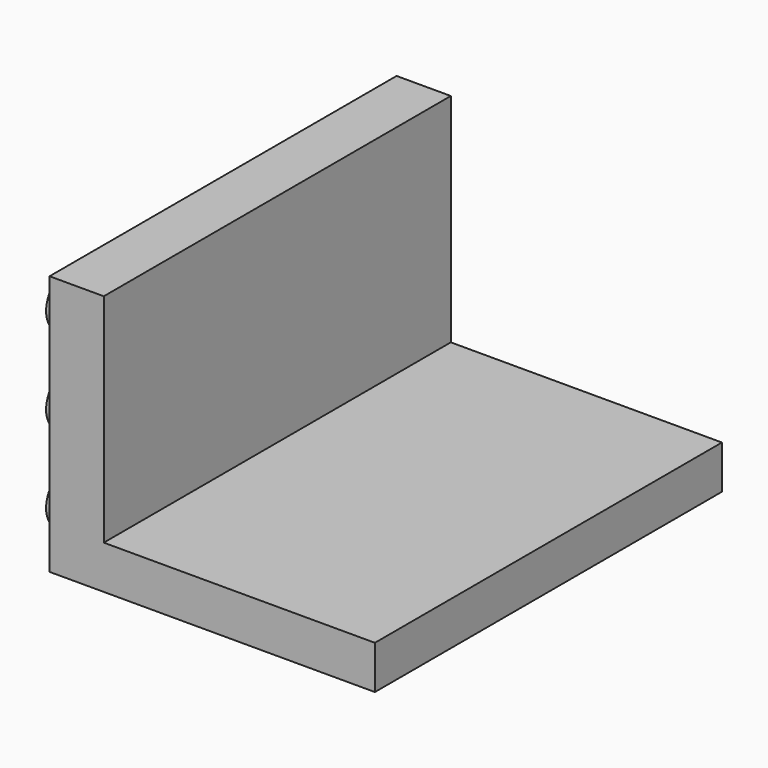
from build123d import *

# Parameters (mm, degrees)
F0_W     = 30
F0_H     = 40
F1_DEPTH = 24
F2_W     = 25
F2_H     = 40
F3_DEPTH = 20
F4_R     = 2.4
F5_DEPTH = 1.6


with BuildPart() as f1:
    # F0 (on Top) → F1 (new body)
    with BuildSketch(Plane.XY):
        Rectangle(F0_W, F0_H)
    extrude(amount=F1_DEPTH)

    # F2 (on face) → F3 (cut)
    with BuildSketch(Plane.XY.offset(24)):
        with Locations((2.5, 0)):
            Rectangle(F2_W, F2_H)
    extrude(amount=-F3_DEPTH, mode=Mode.SUBTRACT)

    # F4 (on face) → F5 (join)
    with BuildSketch(Plane(origin=(-15, 0, 0), x_dir=(0, -1, 0), z_dir=(-1, 0, 0))):
        with Locations((-16, 4)):
            Circle(F4_R)
        with Locations((-16, 12)):
            Circle(F4_R)
        with Locations((-16, 20)):
            Circle(F4_R)
        with Locations((-8, 4)):
            Circle(F4_R)
        with Locations((-8, 12)):
            Circle(F4_R)
        with Locations((-8, 20)):
            Circle(F4_R)
        with Locations((0, 4)):
            Circle(F4_R)
        with Locations((0, 12)):
            Circle(F4_R)
        with Locations((0, 20)):
            Circle(F4_R)
        with Locations((8, 4)):
            Circle(F4_R)
        with Locations((8, 12)):
            Circle(F4_R)
        with Locations((8, 20)):
            Circle(F4_R)
        with Locations((16, 4)):
            Circle(F4_R)
        with Locations((16, 12)):
            Circle(F4_R)
        with Locations((16, 20)):
            Circle(F4_R)
    extrude(amount=F5_DEPTH)


solid = f1.part
